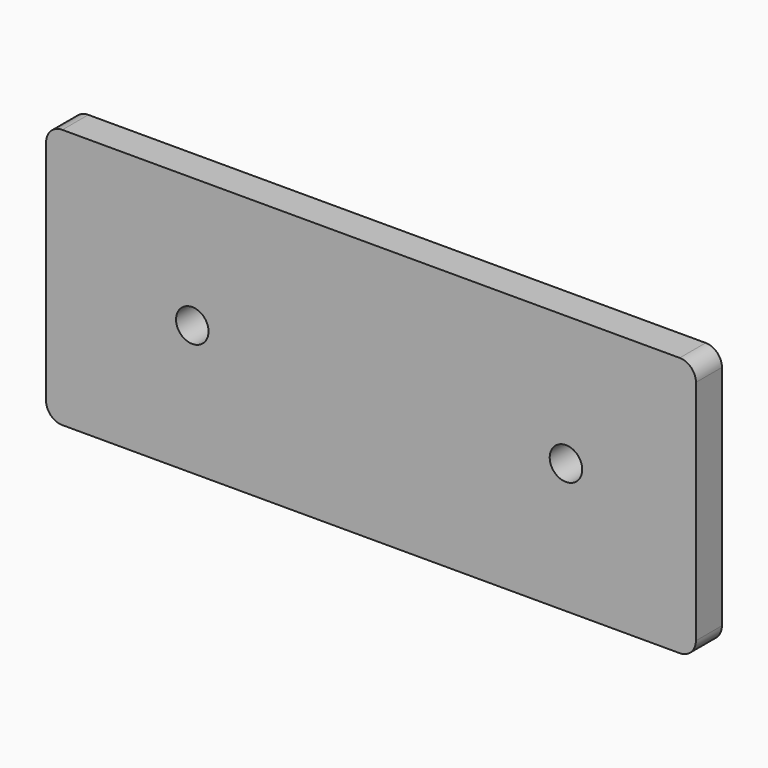
from build123d import *

# Parameters (mm, degrees)
F0_W     = 254
F0_H     = 101.6
F0_R     = 6.35
F1_DEPTH = 12.7
F2_R     = 6.35


with BuildPart() as f1:
    # F0 (on Front) → F1 (new body)
    with BuildSketch(Plane.XZ):
        with Locations((127, 50.8)):
            Rectangle(F0_W, F0_H)
        with Locations((57.15, 50.8)):
            Circle(F0_R, mode=Mode.SUBTRACT)
        with Locations((203.2, 50.8)):
            Circle(F0_R, mode=Mode.SUBTRACT)
    extrude(amount=F1_DEPTH)

    # F2
    f2_edges = [f1.edges().sort_by_distance(p)[0] for p in [
        (0, -6.35, 101.6),
        (0, -6.35, 0),
        (254, -6.35, 0),
        (254, -6.35, 101.6),
    ]]
    fillet(f2_edges, radius=F2_R)


solid = f1.part
